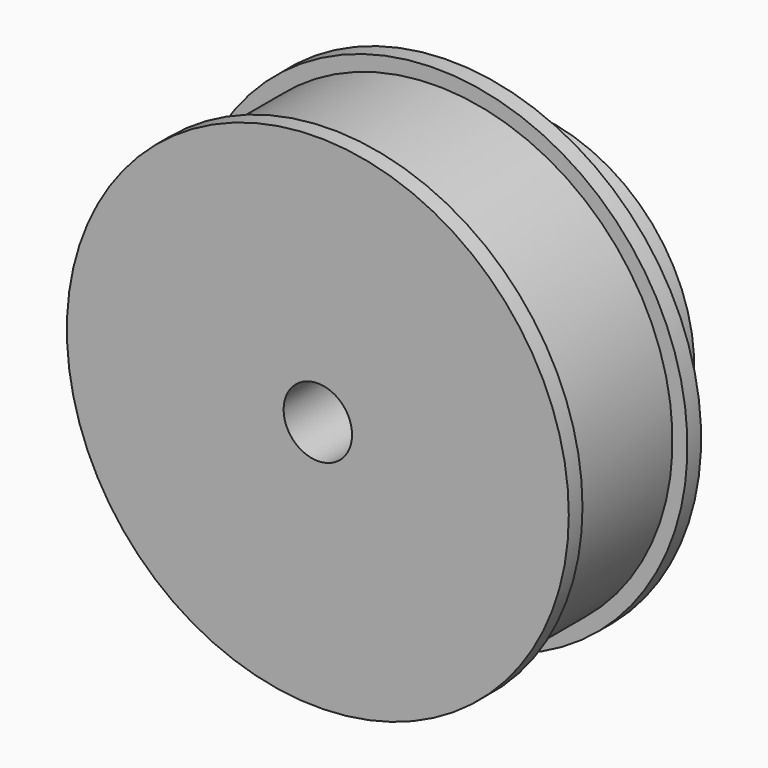
from build123d import *

# Parameters (mm, degrees)
F0_R     = 22
F1_DEPTH = 1.5
F2_R     = 20.69
F3_DEPTH = 11.5
F4_R     = 22
F5_DEPTH = 1.5
F6_R     = 15
F7_DEPTH = 8
F8_R     = 3
F9_DEPTH = 22.501


with BuildPart() as f1:
    # F0 (on Front) → F1 (new body)
    with BuildSketch(Plane.XZ):
        Circle(F0_R)
    extrude(amount=F1_DEPTH)

    # F2 (on face) → F3 (join)
    with BuildSketch(Plane(origin=(0, 0, 0), x_dir=(-1, 0, 0), z_dir=(0, 1, 0))):
        Circle(F2_R)
    extrude(amount=F3_DEPTH)

    # F4 (on face) → F5 (join)
    with BuildSketch(Plane(origin=(0, 11.5, 0), x_dir=(-1, 0, 0), z_dir=(0, 1, 0))):
        Circle(F4_R)
    extrude(amount=F5_DEPTH)

    # F6 (on face) → F7 (join)
    with BuildSketch(Plane(origin=(0, 13, 0), x_dir=(-1, 0, 0), z_dir=(0, 1, 0))):
        Circle(F6_R)
    extrude(amount=F7_DEPTH)

    # F8 (on face) → F9 (cut, through all)
    with BuildSketch(Plane(origin=(0, 21, 0), x_dir=(-1, 0, 0), z_dir=(0, 1, 0))):
        Circle(F8_R)
    extrude(amount=-F9_DEPTH, mode=Mode.SUBTRACT)


solid = f1.part
